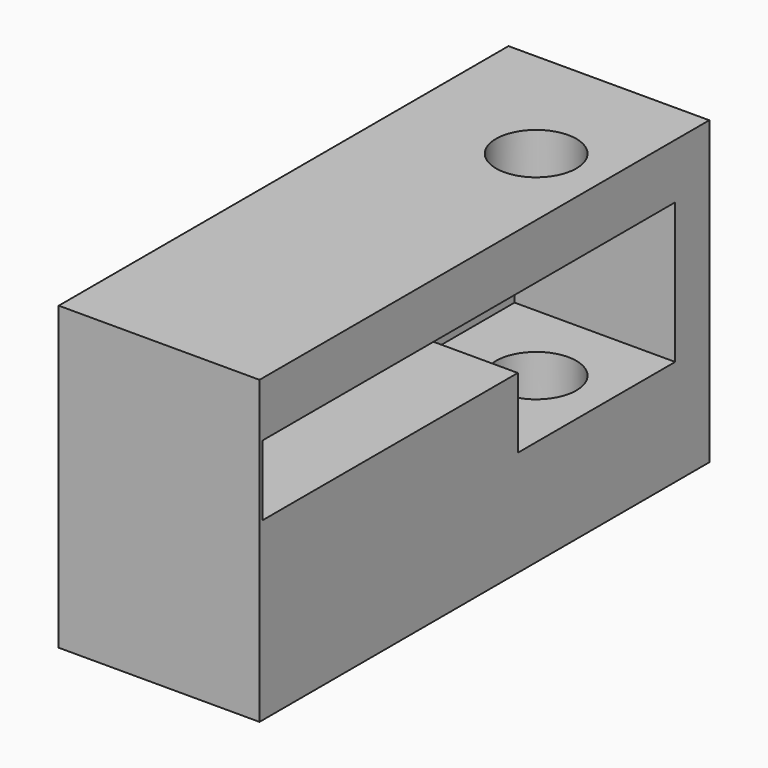
from build123d import *

# Parameters (mm, degrees)
CYLINDER011_R     = 2
CYLINDER011_DEPTH = 50
PAD002_DEPTH      = 30
BOX007_W          = 10
BOX007_H          = 28
BOX007_DEPTH      = 15


with BuildPart() as cylinder011:
    # Cylinder011 → Cylinder011 (new body)
    with BuildSketch(Plane(origin=(-105.5, -15.4, -37), x_dir=(1, 0, 0), z_dir=(0, 0, 1))):
        Circle(CYLINDER011_R)
    extrude(amount=CYLINDER011_DEPTH)


with BuildPart() as fusion001006:
    # Sketch002 → Pad002 (new body)
    with BuildSketch(Plane.YZ):
        Polygon((-36.805373, -9.734821), (-11.122054, -9.734821), (-11.122054, -16.734821), (-20.919355, -16.734821), (-20.919355, -13.234821), (-36.805373, -13.234821), align=None)
    extrude(amount=PAD002_DEPTH)


with BuildPart() as fusion001006_1:
    # Body002 placement: moved
    add(fusion001006.part.moved(Location((-110, 0, 0))))

    # Fusion001006: union Cylinder011
    add(cylinder011.part)


with BuildPart() as cut010:
    # Box007 → Box007 (new body)
    with BuildSketch(Plane(origin=(-112, -37, -22), x_dir=(1, 0, 0), z_dir=(0, 0, 1))):
        with Locations((5, 14)):
            Rectangle(BOX007_W, BOX007_H)
    extrude(amount=BOX007_DEPTH)

    # Cut010: cut Fusion001006
    add(fusion001006_1.part, mode=Mode.SUBTRACT)


solid = cut010.part
